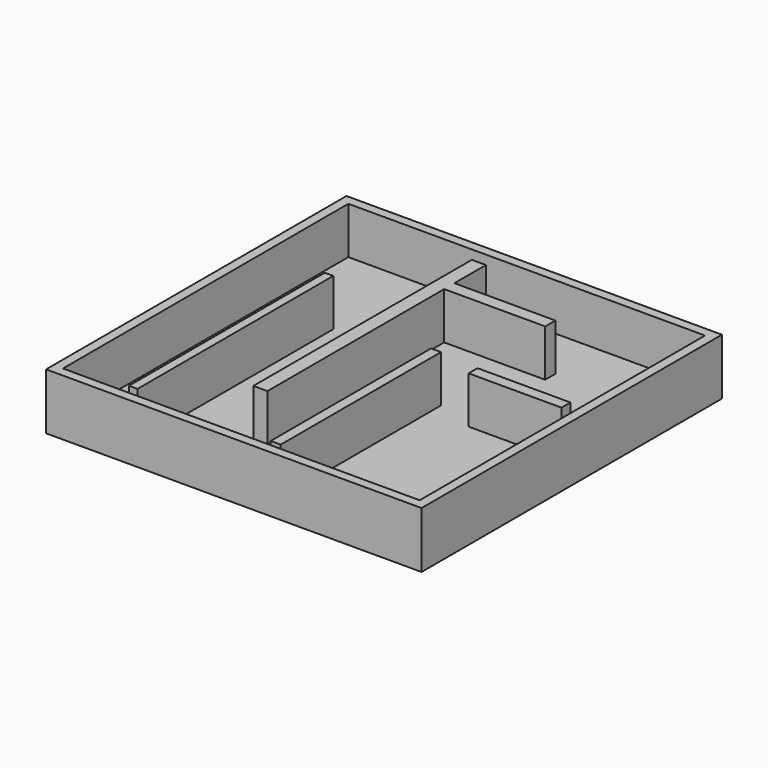
from build123d import *

# Parameters (mm, degrees)
F0_W     = 50.8
F0_H     = 50.8
F1_DEPTH = 7.62
F2_T     = -1.27
F3_W     = 1.152528
F3_H     = 33.115175
F3_W_2   = 13.665814
F3_H_2   = 1.731235
F3_W_3   = 1.353253
F3_H_3   = 27.104161
F3_W_4   = 12.571838
F3_H_4   = 1.511616
F4_DEPTH = 7.62
F5_R     = 1.27
F6_DEPTH = 7.621


with BuildPart() as f1:
    # F0 (on Top) → F1 (new body)
    with BuildSketch(Plane.XY):
        with Locations((25.4, 25.4)):
            Rectangle(F0_W, F0_H)
    extrude(amount=F1_DEPTH)

    # F2
    f2_openings = [f1.faces().sort_by_distance(p)[0] for p in [
        (25.4, 25.4, 7.62),
    ]]
    offset(amount=F2_T, openings=f2_openings)

    # F3 (on Top) → F4 (join)
    with BuildSketch(Plane.XY):
        with Locations((9.76058, 19.097683)):
            Rectangle(F3_W, F3_H)
        Polygon((21.372069, 42.3421), (21.372069, 47.670342), (19.46665, 47.670342), (19.46665, 10.718926), (21.372069, 10.718926), (21.372069, 40.610865), align=None)
        with Locations((28.204976, 41.476482)):
            Rectangle(F3_W_2, F3_H_2)
        with Locations((29.44033, 15.588485)):
            Rectangle(F3_W_3, F3_H_3)
        with Locations((41.71568, 27.930296)):
            Rectangle(F3_W_4, F3_H_4)
    extrude(amount=F4_DEPTH)

    # F5 (on Top) → F6 (cut, through all)
    with BuildSketch(Plane.XY):
        with Locations((5.450803, 6.229489)):
            Circle(F5_R)
        with Locations((5.256131, 10.706934)):
            Circle(F5_R)
        with Locations((41.075695, 6.229489)):
            Circle(F5_R)
        with Locations((24.723286, 45.358468)):
            Circle(F5_R)
    extrude(amount=F6_DEPTH, mode=Mode.SUBTRACT)


solid = f1.part
